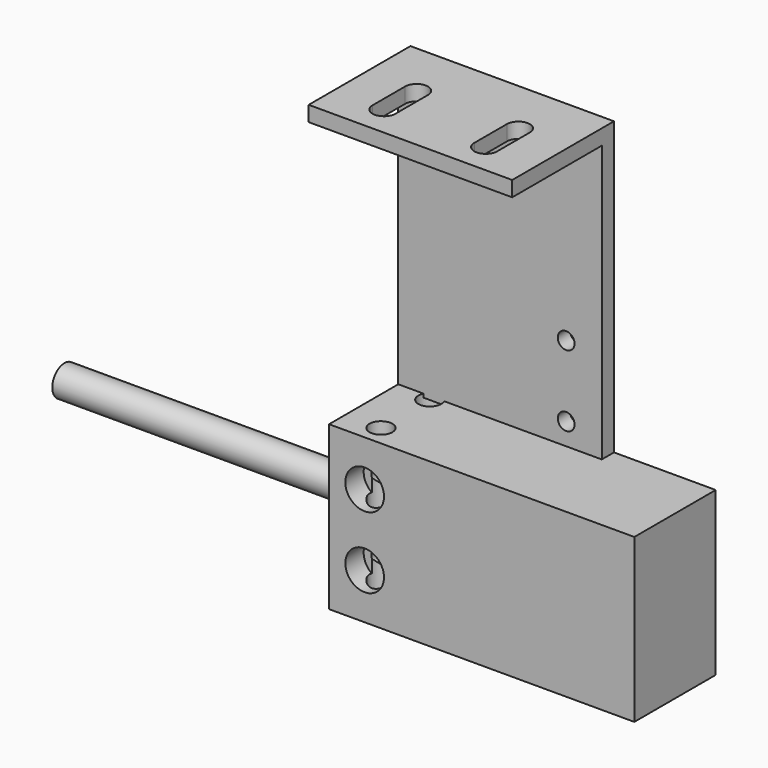
from build123d import *

# Parameters (mm, degrees)
F0_W           = 60
F0_H           = 32
F1_DEPTH       = 20
F2_R           = 3
F3_DEPTH       = 60
F5_D           = 4.5
F5_CBORE_D     = 7.6
F5_CBORE_DEPTH = 4.5
F7_DEPTH       = 40
F10_D          = 4.5
F11_R          = 3
F12_DEPTH      = 50
F13_D          = 3.3
F15_DEPTH      = 25


with BuildPart() as f1:
    # F0 (on Front) → F1 (new body)
    with BuildSketch(Plane.XZ):
        with Locations((-9, -10.5)):
            Rectangle(F0_W, F0_H)
    extrude(amount=-F1_DEPTH)

    # F5 (through all)
    with Locations(Plane.XZ):
        with Locations((-32, -3.5), (-32, -17.5)):
            CounterBoreHole(F5_D / 2, F5_CBORE_D / 2, F5_CBORE_DEPTH)

    # F10 (through all)
    with Locations(Plane.XY.offset(5.5)):
        with Locations((-32, 16), (-32, 4)):
            Hole(F10_D / 2)

    # F11 (on face) → F12 (cut)
    with BuildSketch(Plane(origin=(-39, 0, 0), x_dir=(0, -1, 0), z_dir=(-1, 0, 0))):
        with Locations((-10, -10.5)):
            Circle(F11_R)
    extrude(amount=-F12_DEPTH, mode=Mode.SUBTRACT)


with BuildPart() as f3:
    # F2 (on face) → F3 (new body)
    with BuildSketch(Plane(origin=(-39, 0, 0), x_dir=(0, -1, 0), z_dir=(-1, 0, 0))):
        with Locations((-10, -10.5)):
            Circle(F2_R)
    extrude(amount=F3_DEPTH)


with BuildPart() as f7:
    # F6 (on face) → F7 (new body)
    with BuildSketch(Plane(origin=(-39, 0, 0), x_dir=(0, -1, 0), z_dir=(-1, 0, 0))):
        Polygon((-20, 62.7934455797), (-20, 4.7934455797), (-17, 4.7934455797), (-17, 59.7934455797), (5, 59.7934455797), (5, 62.7934455797), align=None)
    extrude(amount=-F7_DEPTH)

    # F13 (through all)
    with Locations(Plane.XZ.offset(-17)):
        with Locations((-6, 23.7934455797), (-6, 9.7934455797)):
            Hole(F13_D / 2)

    # F14 (on face) → F15 (cut)
    with BuildSketch(Plane(origin=(0, 0, 59.7934455797), x_dir=(1, 0, 0), z_dir=(0, 0, -1))):
        with BuildLine():
            Line((-26.7500000095, -8.9997930759), (-26.7507304485, -1.0573278685))
            ThreePointArc((-26.7507304485, -1.0573278685), (-28.9713337391, 1.2498173805), (-31.25, -1))
            Line((-31.25, -1), (-31.25, -9))
            ThreePointArc((-31.25, -9), (-28.9998965379, -11.2499999976), (-26.7500000095, -8.9997930759))
        make_face()
        with BuildLine():
            Line((-11.249809153, -1.0293048642), (-11.2499999994, -8.9999461268))
            ThreePointArc((-11.2499999994, -8.9999461268), (-9.025023839, -11.2498608418), (-6.750555418, -9.0499907226))
            Line((-6.750555418, -9.0499907226), (-6.750555418, -8.9500092774))
            Line((-6.750555418, -8.9500092774), (-6.750555418, -1.0499907226))
            ThreePointArc((-6.750555418, -1.0499907226), (-8.9896554646, 1.24997622), (-11.249809153, -1.0293048642))
        make_face()
        with BuildLine():
            Line((-6.750555418, -8.9500092774), (-6.750555418, -9.0499907226))
            ThreePointArc((-6.750555418, -9.0499907226), (-6.75, -9), (-6.750555418, -8.9500092774))
        make_face()
    extrude(amount=-F15_DEPTH, mode=Mode.SUBTRACT)


solid = Compound([f1.part, f3.part, f7.part])
